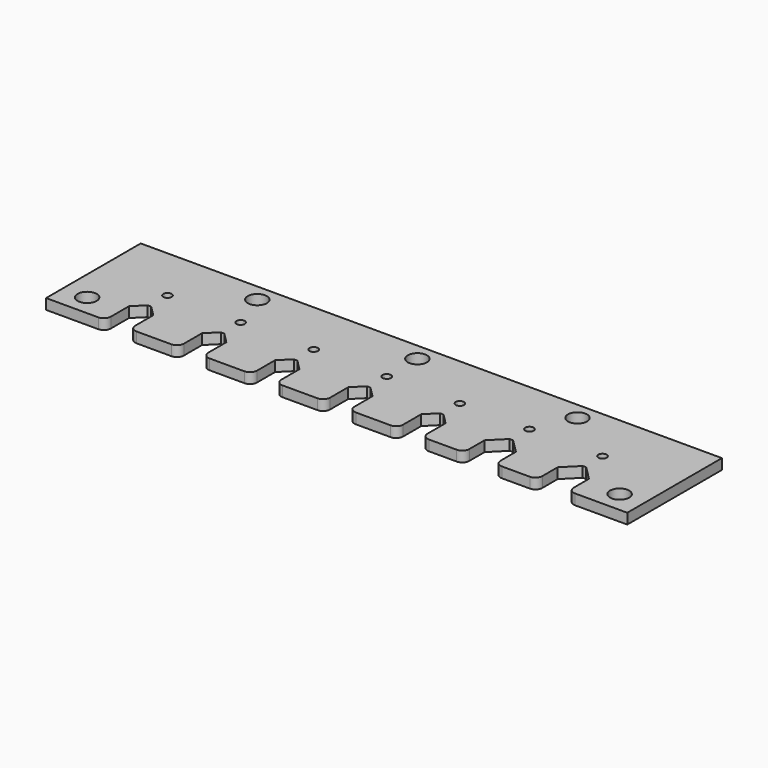
from build123d import *

# Parameters (mm, degrees)
F0_R     = 2.75
F0_R_2   = 1.2
F1_DEPTH = 3


with BuildPart() as f1:
    # F0 (on Top) → F1 (new body)
    with BuildSketch(Plane.XY):
        with BuildLine():
            Line((101, 8.5), (104, 11.5))
            Line((104, 11.5), (104.5, 12))
            Line((104.5, 12), (104, 12))
            ThreePointArc((104, 12), (101.87868, 11.12132), (101, 9))
            Line((101, 9), (101, 8.5))
        make_face()
        with BuildLine():
            Line((105, 11.5), (108, 8.5))
            Line((108, 8.5), (108, 9))
            ThreePointArc((108, 9), (107.12132, 11.12132), (105, 12))
            Line((105, 12), (104.5, 12))
            Line((104.5, 12), (105, 11.5))
        make_face()
        Polygon((104, 11.5), (105, 11.5), (104.5, 12), align=None)
        with BuildLine():
            Line((0, 34), (0, 0))
            Line((0, 0), (15, 0))
            ThreePointArc((15, 0), (16.414214, 0.585786), (17, 2))
            Line((17, 2), (17, 8.5))
            Line((17, 8.5), (17, 9))
            ThreePointArc((17, 9), (17.87868, 11.12132), (20, 12))
            Line((20, 12), (20.5, 12))
            Line((20.5, 12), (21, 12))
            ThreePointArc((21, 12), (23.12132, 11.12132), (24, 9))
            Line((24, 9), (24, 8.5))
            Line((24, 8.5), (24, 2))
            ThreePointArc((24, 2), (24.585786, 0.585786), (26, 0))
            Line((26, 0), (36, 0))
            ThreePointArc((36, 0), (37.414214, 0.585786), (38, 2))
            Line((38, 2), (38, 8.5))
            Line((38, 8.5), (38, 9))
            ThreePointArc((38, 9), (38.87868, 11.12132), (41, 12))
            Line((41, 12), (41.5, 12))
            Line((41.5, 12), (42, 12))
            ThreePointArc((42, 12), (44.12132, 11.12132), (45, 9))
            Line((45, 9), (45, 8.5))
            Line((45, 8.5), (45, 2))
            ThreePointArc((45, 2), (45.585786, 0.585786), (47, 0))
            Line((47, 0), (57, 0))
            ThreePointArc((57, 0), (58.414214, 0.585786), (59, 2))
            Line((59, 2), (59, 8.5))
            Line((59, 8.5), (59, 9))
            ThreePointArc((59, 9), (59.87868, 11.12132), (62, 12))
            Line((62, 12), (62.5, 12))
            Line((62.5, 12), (63, 12))
            ThreePointArc((63, 12), (65.12132, 11.12132), (66, 9))
            Line((66, 9), (66, 8.5))
            Line((66, 8.5), (66, 2))
            ThreePointArc((66, 2), (66.585786, 0.585786), (68, 0))
            Line((68, 0), (78, 0))
            ThreePointArc((78, 0), (79.414214, 0.585786), (80, 2))
            Line((80, 2), (80, 8.5))
            Line((80, 8.5), (80, 9))
            ThreePointArc((80, 9), (80.87868, 11.12132), (83, 12))
            Line((83, 12), (83.5, 12))
            Line((83.5, 12), (84, 12))
            ThreePointArc((84, 12), (86.12132, 11.12132), (87, 9))
            Line((87, 9), (87, 8.5))
            Line((87, 8.5), (87, 2))
            ThreePointArc((87, 2), (87.585786, 0.585786), (89, 0))
            Line((89, 0), (99, 0))
            ThreePointArc((99, 0), (100.414214, 0.585786), (101, 2))
            Line((101, 2), (101, 8.5))
            Line((101, 8.5), (101, 9))
            ThreePointArc((101, 9), (101.87868, 11.12132), (104, 12))
            Line((104, 12), (104.5, 12))
            Line((104.5, 12), (105, 12))
            ThreePointArc((105, 12), (107.12132, 11.12132), (108, 9))
            Line((108, 9), (108, 8.5))
            Line((108, 8.5), (108, 2))
            ThreePointArc((108, 2), (108.585786, 0.585786), (110, 0))
            Line((110, 0), (118, 0))
            ThreePointArc((118, 0), (119.414214, 0.585786), (120, 2))
            Line((120, 2), (120, 7.5))
            Line((120, 7.5), (120, 8))
            ThreePointArc((120, 8), (121.171573, 10.828427), (124, 12))
            Line((124, 12), (124.5, 12))
            Line((124.5, 12), (125, 12))
            ThreePointArc((125, 12), (127.828427, 10.828427), (129, 8))
            Line((129, 8), (129, 7.5))
            Line((129, 7.5), (129, 2))
            ThreePointArc((129, 2), (129.585786, 0.585786), (131, 0))
            Line((131, 0), (139, 0))
            ThreePointArc((139, 0), (140.414214, 0.585786), (141, 2))
            Line((141, 2), (141, 7.5))
            Line((141, 7.5), (141, 8))
            ThreePointArc((141, 8), (142.171573, 10.828427), (145, 12))
            Line((145, 12), (145.5, 12))
            Line((145.5, 12), (146, 12))
            ThreePointArc((146, 12), (148.828427, 10.828427), (150, 8))
            Line((150, 8), (150, 7.5))
            Line((150, 7.5), (150, 2))
            ThreePointArc((150, 2), (150.585786, 0.585786), (152, 0))
            Line((152, 0), (167, 0))
            Line((167, 0), (167, 34))
            Line((167, 34), (0, 34))
        make_face()
        with Locations((7, 6)):
            Circle(F0_R, mode=Mode.SUBTRACT)
        with Locations((160, 6)):
            Circle(F0_R, mode=Mode.SUBTRACT)
        with Locations((20.5, 18)):
            Circle(F0_R_2, mode=Mode.SUBTRACT)
        with Locations((41.5, 18)):
            Circle(F0_R_2, mode=Mode.SUBTRACT)
        with Locations((62.5, 18)):
            Circle(F0_R_2, mode=Mode.SUBTRACT)
        with Locations((37.5, 29)):
            Circle(F0_R, mode=Mode.SUBTRACT)
        with Locations((83.5, 18)):
            Circle(F0_R_2, mode=Mode.SUBTRACT)
        with Locations((104.5, 18)):
            Circle(F0_R_2, mode=Mode.SUBTRACT)
        with Locations((124.5, 18)):
            Circle(F0_R_2, mode=Mode.SUBTRACT)
        with Locations((145.5, 18)):
            Circle(F0_R_2, mode=Mode.SUBTRACT)
        with Locations((83.5, 29)):
            Circle(F0_R, mode=Mode.SUBTRACT)
        with Locations((129.5, 29)):
            Circle(F0_R, mode=Mode.SUBTRACT)
        with BuildLine():
            Line((146, 11.5), (150, 7.5))
            Line((150, 7.5), (150, 8))
            ThreePointArc((150, 8), (148.828427, 10.828427), (146, 12))
            Line((146, 12), (145.5, 12))
            Line((145.5, 12), (146, 11.5))
        make_face()
        Polygon((145, 11.5), (146, 11.5), (145.5, 12), align=None)
        with BuildLine():
            Line((145, 11.5), (145.5, 12))
            Line((145.5, 12), (145, 12))
            ThreePointArc((145, 12), (142.171573, 10.828427), (141, 8))
            Line((141, 8), (141, 7.5))
            Line((141, 7.5), (145, 11.5))
        make_face()
        with BuildLine():
            Line((125, 11.5), (129, 7.5))
            Line((129, 7.5), (129, 8))
            ThreePointArc((129, 8), (127.828427, 10.828427), (125, 12))
            Line((125, 12), (124.5, 12))
            Line((124.5, 12), (125, 11.5))
        make_face()
        Polygon((124, 11.5), (125, 11.5), (124.5, 12), align=None)
        with BuildLine():
            Line((124, 11.5), (124.5, 12))
            Line((124.5, 12), (124, 12))
            ThreePointArc((124, 12), (121.171573, 10.828427), (120, 8))
            Line((120, 8), (120, 7.5))
            Line((120, 7.5), (124, 11.5))
        make_face()
        with BuildLine():
            Line((84, 12), (83.5, 12))
            Line((83.5, 12), (84, 11.5))
            Line((84, 11.5), (87, 8.5))
            Line((87, 8.5), (87, 9))
            ThreePointArc((87, 9), (86.12132, 11.12132), (84, 12))
        make_face()
        Polygon((83.5, 12), (83, 11.5), (84, 11.5), align=None)
        with BuildLine():
            Line((80, 9), (80, 8.5))
            Line((80, 8.5), (83, 11.5))
            Line((83, 11.5), (83.5, 12))
            Line((83.5, 12), (83, 12))
            ThreePointArc((83, 12), (80.87868, 11.12132), (80, 9))
        make_face()
        with BuildLine():
            Line((63, 12), (62.5, 12))
            Line((62.5, 12), (63, 11.5))
            Line((63, 11.5), (66, 8.5))
            Line((66, 8.5), (66, 9))
            ThreePointArc((66, 9), (65.12132, 11.12132), (63, 12))
        make_face()
        Polygon((62.5, 12), (62, 11.5), (63, 11.5), align=None)
        with BuildLine():
            Line((59, 9), (59, 8.5))
            Line((59, 8.5), (62, 11.5))
            Line((62, 11.5), (62.5, 12))
            Line((62.5, 12), (62, 12))
            ThreePointArc((62, 12), (59.87868, 11.12132), (59, 9))
        make_face()
        with BuildLine():
            Line((42, 12), (41.5, 12))
            Line((41.5, 12), (42, 11.5))
            Line((42, 11.5), (45, 8.5))
            Line((45, 8.5), (45, 9))
            ThreePointArc((45, 9), (44.12132, 11.12132), (42, 12))
        make_face()
        Polygon((41.5, 12), (41, 11.5), (42, 11.5), align=None)
        with BuildLine():
            Line((38, 9), (38, 8.5))
            Line((38, 8.5), (41, 11.5))
            Line((41, 11.5), (41.5, 12))
            Line((41.5, 12), (41, 12))
            ThreePointArc((41, 12), (38.87868, 11.12132), (38, 9))
        make_face()
        with BuildLine():
            Line((21, 12), (20.5, 12))
            Line((20.5, 12), (21, 11.5))
            Line((21, 11.5), (24, 8.5))
            Line((24, 8.5), (24, 9))
            ThreePointArc((24, 9), (23.12132, 11.12132), (21, 12))
        make_face()
        Polygon((20.5, 12), (20, 11.5), (21, 11.5), align=None)
        with BuildLine():
            Line((17, 9), (17, 8.5))
            Line((17, 8.5), (20, 11.5))
            Line((20, 11.5), (20.5, 12))
            Line((20.5, 12), (20, 12))
            ThreePointArc((20, 12), (17.87868, 11.12132), (17, 9))
        make_face()
    extrude(amount=F1_DEPTH)


solid = f1.part
